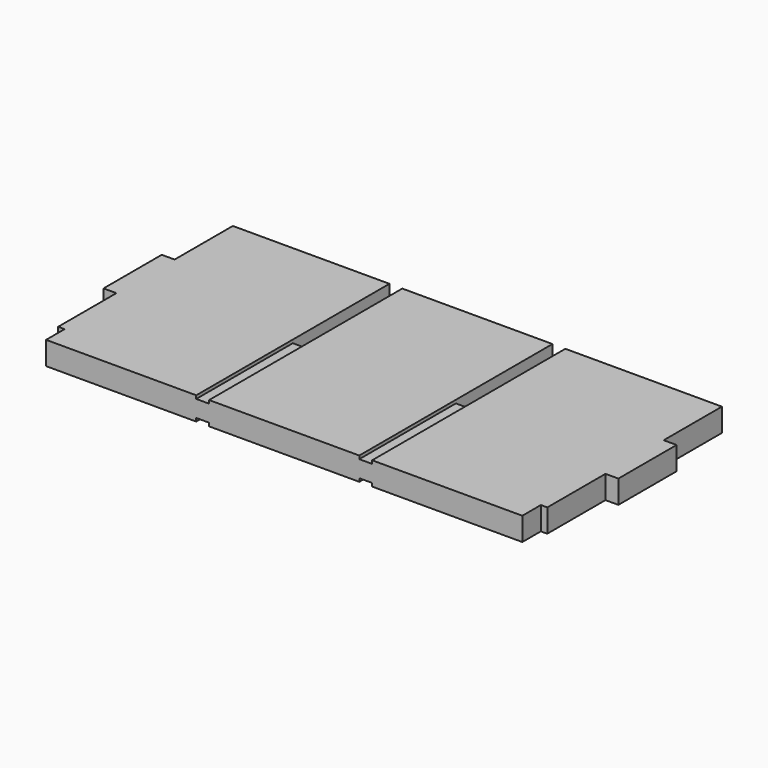
from build123d import *

# Parameters (mm, degrees)
SKETCH004_W              = 18
SKETCH004_H              = 169.6125627158
PAD003_DEPTH             = 5
SKETCH005_W              = 18
SKETCH005_H              = 56.5375209053
PAD004_DEPTH             = 10
PAD005_DEPTH             = 18
SKETCH007_W              = 93.8062813579
SKETCH007_H              = 10
POCKET_DEPTH             = 2.5
SKETCH008_W              = 93.8062813579
SKETCH008_H              = 10
POCKET001_DEPTH          = 2.5
CLONE011_PLACEMENT_ANGLE = 90


with BuildPart() as part:
    # Sketch004 → Pad003 (new body)
    with BuildSketch(Plane.XY):
        with Locations((0, -97.1937186421)):
            Rectangle(SKETCH004_W, SKETCH004_H)
    extrude(amount=PAD003_DEPTH)

    # Sketch005 (on Face5 of Pad003) → Pad004 (join)
    with BuildSketch(Plane(origin=(0, 0, 0), x_dir=(1, 0, 0), z_dir=(0, 0, -1))):
        with Locations((0, 97.1937186421)):
            Rectangle(SKETCH005_W, SKETCH005_H)
    extrude(amount=PAD004_DEPTH)

    # Sketch006 (on Face9 of Pad004) → Pad005 (join)
    with BuildSketch(Plane.YZ.offset(9)):
        Polygon((-12.3874372842, 0), (-68.9249581895, 0), (-68.9249581895, -10), (-125.4624790947, -10), (-125.4624790947, 0), (-182, 0), (-182, 5), (-200, 5), (-200, 375), (-182, 375), (-182, 380), (-125.4624790947, 380), (-125.4624790947, 390), (-68.9249581895, 390), (-68.9249581895, 380), (-12.3874372842, 380), (-12.3874372842, 375), (-12.3874372842, 258.3333333333), (-106.1937186421, 258.3333333333), (-106.1937186421, 248.3333333333), (-12.3874372842, 248.3333333333), (-12.3874372842, 131.6666666667), (-106.1937186421, 131.6666666667), (-106.1937186421, 121.6666666667), (-12.3874372842, 121.6666666667), (-12.3874372842, 5), align=None)
    extrude(amount=-PAD005_DEPTH)

    # Sketch007 (on Face11 of Pad005) → Pocket (cut)
    with BuildSketch(Plane.YZ.offset(9)):
        with Locations((-153.0968593211, 253.3333333333)):
            Rectangle(SKETCH007_W, SKETCH007_H)
        with Locations((-153.0968593211, 126.6666666667)):
            Rectangle(SKETCH007_W, SKETCH007_H)
    extrude(amount=-POCKET_DEPTH, mode=Mode.SUBTRACT)

    # Sketch008 (on Face9 of Pocket) → Pocket001 (cut)
    with BuildSketch(Plane(origin=(-9, 0, 0), x_dir=(0, -1, 0), z_dir=(-1, 0, 0))):
        with Locations((153.0968593211, 126.6666666667)):
            Rectangle(SKETCH008_W, SKETCH008_H)
        with Locations((153.0968593211, 253.3333333333)):
            Rectangle(SKETCH008_W, SKETCH008_H)
    extrude(amount=-POCKET001_DEPTH, mode=Mode.SUBTRACT)


with BuildPart() as part_1:
    # Body004 placement: moved
    add(part.part.moved(Location((0, 0, 13))))


with BuildPart() as part_2:
    # Clone011 placement: moved
    add(part_1.part.moved(Location((203, 3, 9))).rotate(Axis((203, 3, 9), (0, -1, 0)), CLONE011_PLACEMENT_ANGLE))


solid = part_2.part
